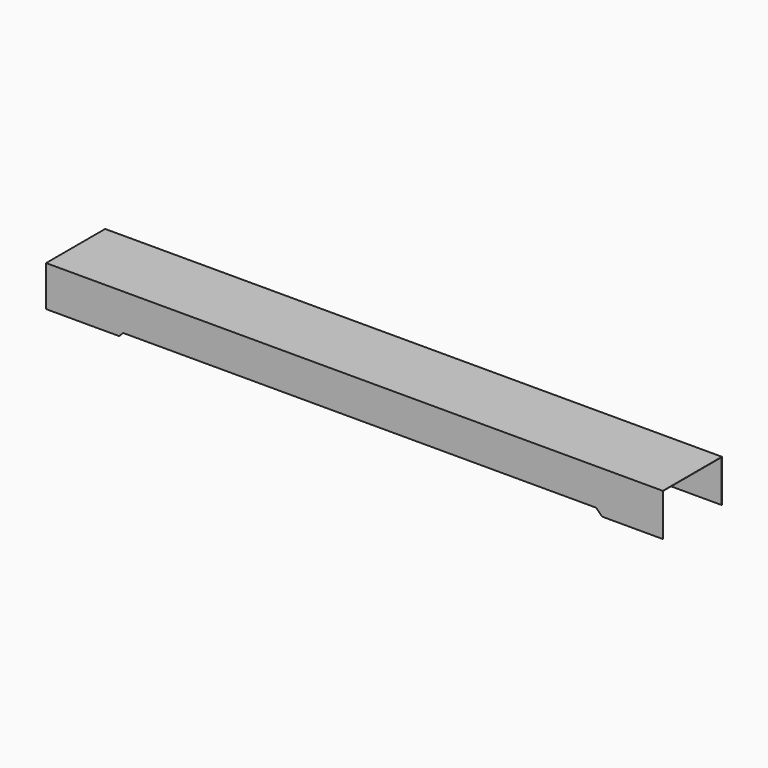
from build123d import *

# Parameters (mm, degrees)
EXTRUDE032_DEPTH = 452
EXTRUDE012_DEPTH = 455


with BuildPart() as extrude032:
    # Sketch033 → Extrude032 (new body, symmetric)
    with BuildSketch(Plane.XZ):
        Polygon((-597, -89), (-597, 411), (7097, 411), (7097, -112), (6247, -112), (6189, -54), (335, -54), (300, -89), align=None)
    extrude(amount=EXTRUDE032_DEPTH, both=True)


with BuildPart() as extrude032_1:
    # Extrude032 placement: moved
    add(extrude032.part.moved(Location((0, 0, -3))))


with BuildPart() as cut003:
    # Sketch020 → Extrude012 (new body, symmetric)
    with BuildSketch(Plane.XZ):
        Polygon((-600, -89), (-600, 411), (7000, 411), (7000, -112), (6250, -112), (6177, -39), (350, -39), (300, -89), align=None)
    extrude(amount=EXTRUDE012_DEPTH, both=True)

    # Cut003: cut Extrude032
    add(extrude032_1.part, mode=Mode.SUBTRACT)


solid = cut003.part
